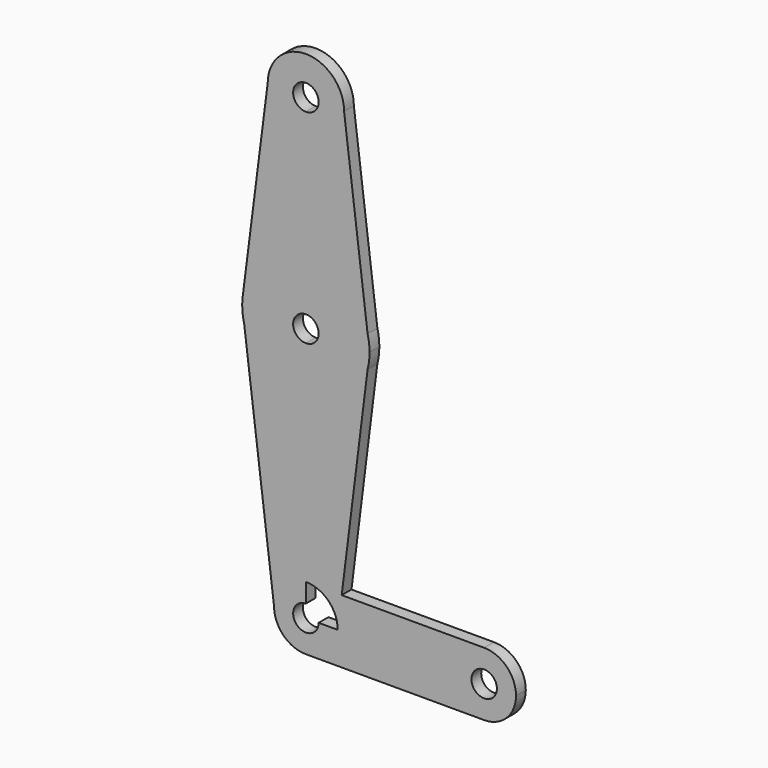
from build123d import *

# Parameters (mm, degrees)
F1_DEPTH = 3.048


with BuildPart() as f1:
    # F0 (on Front) → F1 (new body)
    with BuildSketch(Plane.XZ):
        with BuildLine():
            Line((7.9375, 0), (3.175, 0))
            ThreePointArc((3.175, 0), (-2.2450640303, -2.2450640303), (0, 3.175))
            Line((0, 3.175), (0, 7.9375))
            ThreePointArc((0, 7.9375), (-5.6126600757, 5.6126600757), (-7.9375, 0))
            ThreePointArc((-7.9375, 0), (-5.6126600757, -5.6126600757), (0, -7.9375))
            ThreePointArc((0, -7.9375), (5.6126600757, -5.6126600757), (7.9375, 0))
        make_face()
        with BuildLine():
            Line((8.9296875, 7.9375), (7.9375, 0))
            Line((7.9375, 0), (36.5125, 0))
            ThreePointArc((36.5125, 0), (38.8373399243, 5.6126600757), (44.45, 7.9375))
            Line((44.45, 7.9375), (9.9234625, 7.9375))
            Line((9.9234625, 7.9375), (8.9296875, 7.9375))
        make_face()
        with BuildLine():
            Line((36.5125, 0), (7.9375, 0))
            ThreePointArc((7.9375, 0), (5.6126600757, -5.6126600757), (0, -7.9375))
            Line((0, -7.9375), (44.45, -7.9375))
            ThreePointArc((44.45, -7.9375), (38.8373399243, -5.6126600757), (36.5125, 0))
        make_face()
        with BuildLine():
            ThreePointArc((0, 7.9375), (5.6126600757, 5.6126600757), (7.9375, 0))
            Line((7.9375, 0), (8.9296875, 7.9375))
            Line((8.9296875, 7.9375), (0, 7.9375))
        make_face()
        with BuildLine():
            ThreePointArc((-7.9375, 0), (-5.6126600757, 5.6126600757), (0, 7.9375))
            Line((0, 7.9375), (0, 47.625))
            ThreePointArc((0, 47.625), (-9.7463072395, 50.9690335492), (-15.3865384615, 59.5923076923))
            Line((-15.3865384615, 59.5923076923), (-7.9375, 0))
        make_face()
        with BuildLine():
            Line((0, 47.625), (0, 7.9375))
            Line((0, 7.9375), (8.9296875, 7.9375))
            Line((8.9296875, 7.9375), (15.3865384615, 59.5923076923))
            ThreePointArc((15.3865384615, 59.5923076923), (9.7463072395, 50.9690335492), (0, 47.625))
        make_face()
        with BuildLine():
            ThreePointArc((44.45, 7.9375), (38.8373399243, 5.6126600757), (36.5125, 0))
            ThreePointArc((36.5125, 0), (38.8373399243, -5.6126600757), (44.45, -7.9375))
            ThreePointArc((44.45, -7.9375), (50.0626600757, -5.6126600757), (52.3875, 0))
            ThreePointArc((52.3875, 0), (50.0626600757, 5.6126600757), (44.45, 7.9375))
        make_face()
        with BuildLine():
            ThreePointArc((47.625, 0), (44.45, -3.175), (41.275, 0))
            ThreePointArc((41.275, 0), (44.45, 3.175), (47.625, 0))
        make_face(mode=Mode.SUBTRACT)
        with BuildLine():
            ThreePointArc((-15.3865384615, 59.5923076923), (-9.7463072395, 50.9690335492), (0, 47.625))
            Line((0, 47.625), (0, 60.325))
            ThreePointArc((0, 60.325), (-3.175, 63.5), (0, 66.675))
            Line((0, 66.675), (0, 79.375))
            ThreePointArc((0, 79.375), (-10.4912828548, 75.4142187767), (-15.7474569047, 65.5082893304))
            ThreePointArc((-15.7474569047, 65.5082893304), (-15.8430821396, 64.5061676396), (-15.875, 63.5))
            Line((-15.875, 63.5), (-15.3865384615, 59.5923076923))
        make_face()
        with BuildLine():
            Line((0, 60.325), (0, 47.625))
            ThreePointArc((0, 47.625), (9.7463072395, 50.9690335492), (15.3865384615, 59.5923076923))
            Line((15.3865384615, 59.5923076923), (15.875, 63.5))
            Line((15.875, 63.5), (15.3865384615, 67.4076923077))
            ThreePointArc((15.3865384615, 67.4076923077), (9.7463072395, 76.0309664508), (0, 79.375))
            Line((0, 79.375), (0, 66.675))
            ThreePointArc((0, 66.675), (2.2450640303, 65.7450640303), (3.175, 63.5))
            ThreePointArc((3.175, 63.5), (2.2450640303, 61.2549359697), (0, 60.325))
        make_face()
        with BuildLine():
            Line((15.875, 63.5), (15.3865384615, 59.5923076923))
            ThreePointArc((15.3865384615, 59.5923076923), (15.7524112928, 61.5309485884), (15.875, 63.5))
        make_face()
        with BuildLine():
            ThreePointArc((-15.875, 63.5), (-15.7524112928, 61.5309485884), (-15.3865384615, 59.5923076923))
            Line((-15.3865384615, 59.5923076923), (-15.875, 63.5))
        make_face()
        with BuildLine():
            Line((15.3865384615, 67.4076923077), (15.875, 63.5))
            ThreePointArc((15.875, 63.5), (15.7524112928, 65.4690514116), (15.3865384615, 67.4076923077))
        make_face()
        with BuildLine():
            ThreePointArc((0, 79.375), (9.7463072395, 76.0309664508), (15.3865384615, 67.4076923077))
            Line((15.3865384615, 67.4076923077), (9.525, 114.3))
            ThreePointArc((9.525, 114.3), (6.7351920908, 107.5648079092), (0, 104.775))
            Line((0, 104.775), (0, 79.375))
        make_face()
        with BuildLine():
            ThreePointArc((-15.7474569047, 65.5082893304), (-10.4912828548, 75.4142187767), (0, 79.375))
            Line((0, 79.375), (0, 104.775))
            ThreePointArc((0, 104.775), (-6.7351920908, 107.5648079092), (-9.525, 114.3))
            Line((-9.525, 114.3), (-15.7474569047, 65.5082893304))
        make_face()
        with BuildLine():
            ThreePointArc((0, 104.775), (6.7351920908, 107.5648079092), (9.525, 114.3))
            ThreePointArc((9.525, 114.3), (0, 123.825), (-9.525, 114.3))
            ThreePointArc((-9.525, 114.3), (-6.7351920908, 107.5648079092), (0, 104.775))
        make_face()
        with BuildLine():
            ThreePointArc((3.175, 114.3), (2.2450640303, 112.0549359697), (0, 111.125))
            ThreePointArc((0, 111.125), (-2.2450640303, 116.5450640303), (3.175, 114.3))
        make_face(mode=Mode.SUBTRACT)
    extrude(amount=F1_DEPTH)


solid = f1.part
